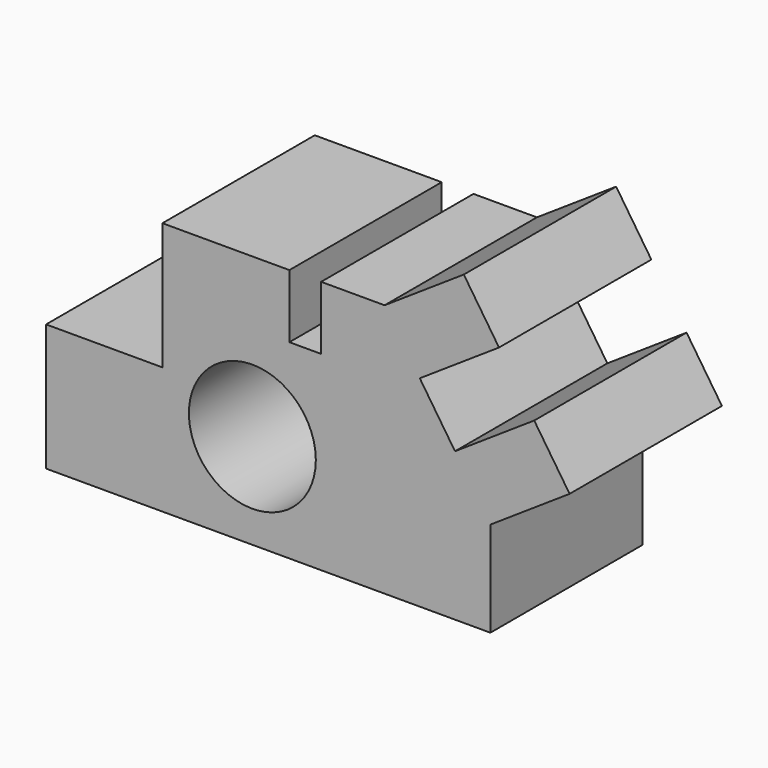
from build123d import *

# Parameters (mm, degrees)
F0_R     = 10
F1_DEPTH = 30


with BuildPart() as f1:
    # F0 (on Front) → F1 (new body)
    with BuildSketch(Plane.XZ):
        Polygon((21.585897, 21.436766), (1.585897, 21.436766), (1.585897, 1.436766), (-16.747437, 1.436766), (-16.747437, -18.563234), (53.252563, -18.563234), (53.252563, -3.563234), (47.679901, 4.795761), (42.132899, 13.116264), (36.585897, 21.436766), (26.585897, 21.436766), (26.585897, 11.436766), (21.585897, 11.436766), align=None)
        with Locations((15.752563, -3.563234)):
            Circle(F0_R, mode=Mode.SUBTRACT)
        Polygon((49.066651, 29.757269), (36.585897, 21.436766), (42.132899, 13.116264), (54.613653, 21.436766), align=None)
        Polygon((47.679901, 4.795761), (53.252563, -3.563234), (65.733318, 4.757269), (60.160655, 13.116264), align=None)
    extrude(amount=F1_DEPTH)


solid = f1.part
